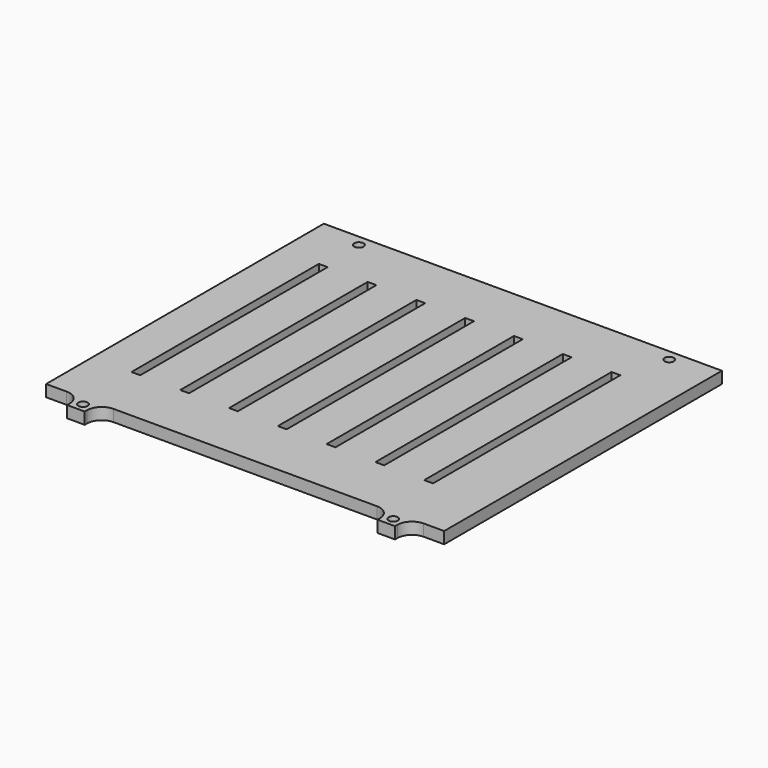
from build123d import *

# Parameters (mm, degrees)
SKETCH021_R            = 1.6
PAD005_DEPTH           = 4
FILLET_R               = 5
SKETCH022_W            = 3
SKETCH022_H            = 80
POCKET010_DEPTH        = 4.001
LINEARPATTERN002_COUNT = 7
LINEARPATTERN002_PITCH = 16.666667


with BuildPart() as part:
    # Sketch021 (on Face1 of ShapeBinder002) → Pad005 (new body)
    with BuildSketch(Plane.XY.offset(41.135521)):
        Polygon((189, 120.6), (189, 2), (201, 2), (201, -4), (207, -4), (207, 2), (307, 2), (307, -4), (313, -4), (313, 2), (325, 2), (325, 120.6), align=None)
        with Locations((204, -1)):
            Circle(SKETCH021_R, mode=Mode.SUBTRACT)
        with Locations((310, -1)):
            Circle(SKETCH021_R, mode=Mode.SUBTRACT)
        with Locations((204, 116.85)):
            Circle(SKETCH021_R, mode=Mode.SUBTRACT)
        with Locations((310, 116.85)):
            Circle(SKETCH021_R, mode=Mode.SUBTRACT)
    extrude(amount=PAD005_DEPTH)

    # Fillet
    fillet_edges = [part.edges().sort_by_distance(p)[0] for p in [
        (207, 2, 43.135521),
        (201, 2, 43.135521),
        (307, 2, 43.135521),
        (313, 2, 43.135521),
    ]]
    fillet(fillet_edges, radius=FILLET_R)

    # Sketch022 (on Face5 of Fillet) → Pocket010 (cut, through all)
    with BuildSketch(Plane.XY.offset(45.135521)):
        with Locations((203.968842, 61.629364)):
            Rectangle(SKETCH022_W, SKETCH022_H)
    pocket010 = extrude(amount=-POCKET010_DEPTH, mode=Mode.SUBTRACT)

    # LinearPattern002: Pocket010 ×7
    with Locations(*[(i * LINEARPATTERN002_PITCH, 0, 0) for i in range(1, LINEARPATTERN002_COUNT)]):
        add(pocket010, mode=Mode.SUBTRACT)


solid = part.part
